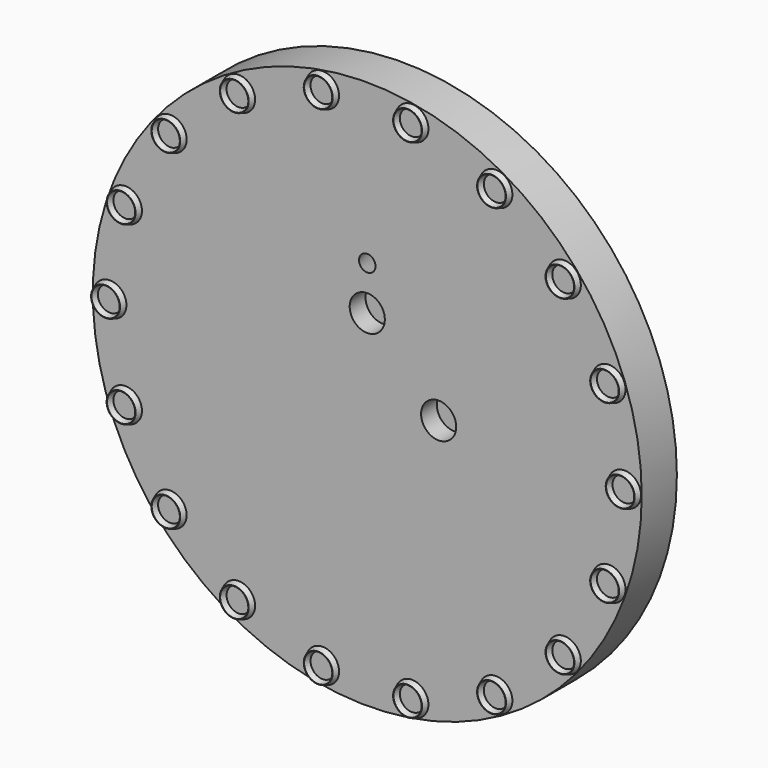
from build123d import *

# Parameters (mm, degrees)
F0_R      = 25
F1_DEPTH  = 4
F4_R      = 1.5
F4_R_2    = 1.1
F5_DEPTH  = 0.5
F5_TAPER  = 20
F6_ANGLE  = 20
F7_ANGLE  = 20
F8_ANGLE  = 20
F9_ANGLE  = 20
F10_ANGLE = 20
F13_R     = 0.75
F14_DEPTH = 4
F14_TAPER = -20
F15_R     = 2.206
F16_DEPTH = 3.8
F16_TAPER = 20
F3_R      = 1.6
F18_DEPTH = 1.8


with BuildPart() as f1:
    # F0 (on Front) → F1 (new body)
    with BuildSketch(Plane.XZ):
        Circle(F0_R)
    extrude(amount=-F1_DEPTH)



with BuildPart() as f5:
    # F4 (on face) → F5 (new body)
    with BuildSketch(Plane.XZ):
        with Locations((4.0694992911, 23.0792773443)):
            Circle(F4_R)
        with Locations((4.0694992911, 23.0792773443)):
            Circle(F4_R_2, mode=Mode.SUBTRACT)
    extrude(amount=F5_DEPTH, taper=F5_TAPER)


with BuildPart() as f6_1:
    # F6: copy of F5
    add(f5.part.rotate(Axis((0, 0, 0), (0, -1, 0)), F6_ANGLE))


with BuildPart() as f7_1:
    # F7: copy of F6_1
    add(f6_1.part.rotate(Axis((0, 0, 0), (0, -1, 0)), F7_ANGLE))


with BuildPart() as f8_1:
    # F8: copy of F7_1
    add(f7_1.part.rotate(Axis((0, 0, 0), (0, -1, 0)), F8_ANGLE))


with BuildPart() as f9_1:
    # F9: copy of F8_1
    add(f8_1.part.rotate(Axis((0, 0, 0), (0, -1, 0)), F9_ANGLE))


with BuildPart() as f10_1:
    # F10: copy of F9_1
    add(f9_1.part.rotate(Axis((0, 0, 0), (0, -1, 0)), F10_ANGLE))


with BuildPart() as f11_1:
    # F11: instance of F5
    add(f5.part.mirror(Plane.XY))


with BuildPart() as f11_2:
    # F11: instance of F6_1
    add(f6_1.part.mirror(Plane.XY))


with BuildPart() as f11_3:
    # F11: instance of F7_1
    add(f7_1.part.mirror(Plane.XY))


with BuildPart() as f11_4:
    # F11: instance of F8_1
    add(f8_1.part.mirror(Plane.XY))


with BuildPart() as f11_5:
    # F11: instance of F9_1
    add(f9_1.part.mirror(Plane.XY))


with BuildPart() as f11_6:
    # F11: instance of F10_1
    add(f10_1.part.mirror(Plane.XY))


with BuildPart() as f1_1:
    add(f1.part)

    add(f5.part)  # F12 merges F5

    add(f6_1.part)  # F12 merges F6_1

    add(f7_1.part)  # F12 merges F7_1

    add(f8_1.part)  # F12 merges F8_1

    add(f9_1.part)  # F12 merges F9_1

    add(f10_1.part)  # F12 merges F10_1

    add(f11_1.part)  # F12 merges F11_1

    add(f11_2.part)  # F12 merges F11_2

    add(f11_3.part)  # F12 merges F11_3

    add(f11_4.part)  # F12 merges F11_4

    add(f11_5.part)  # F12 merges F11_5

    add(f11_6.part)  # F12 merges F11_6
    # F12: F11_3, F11_4, F11_5, F10_1, F9_1, F8_1, F7_1 across plane
    add(f11_3.part.mirror(Plane.YZ))
    add(f11_4.part.mirror(Plane.YZ))
    add(f11_5.part.mirror(Plane.YZ))
    add(f10_1.part.mirror(Plane.YZ))
    add(f9_1.part.mirror(Plane.YZ))
    add(f8_1.part.mirror(Plane.YZ))
    add(f7_1.part.mirror(Plane.YZ))

    # F15 (on face) → F16 (cut)
    with BuildSketch(Plane(origin=(0, 4, 0), x_dir=(-1, 0, 0), z_dir=(0, 1, 0))):
        with Locations((0, -10.5)):
            Circle(F15_R)
    extrude(amount=-F16_DEPTH, taper=F16_TAPER, mode=Mode.SUBTRACT)


with BuildPart() as f14:
    # F13 (on face) → F14 (new body)
    with BuildSketch(Plane.XZ):
        with Locations((0, 10.5)):
            Circle(F13_R)
    extrude(amount=-F14_DEPTH, taper=F14_TAPER)


with BuildPart() as f1_2:
    add(f1_1.part)

    # F17: cut F14
    add(f14.part, mode=Mode.SUBTRACT)

    # F3 (on face) → F18 (cut)
    with BuildSketch(Plane.XZ):
        with Locations((6.5, 0)):
            Circle(F3_R)
        with Locations((0, 6.5)):
            Circle(F3_R)
    extrude(amount=-F18_DEPTH, mode=Mode.SUBTRACT)


solid = f1_2.part
